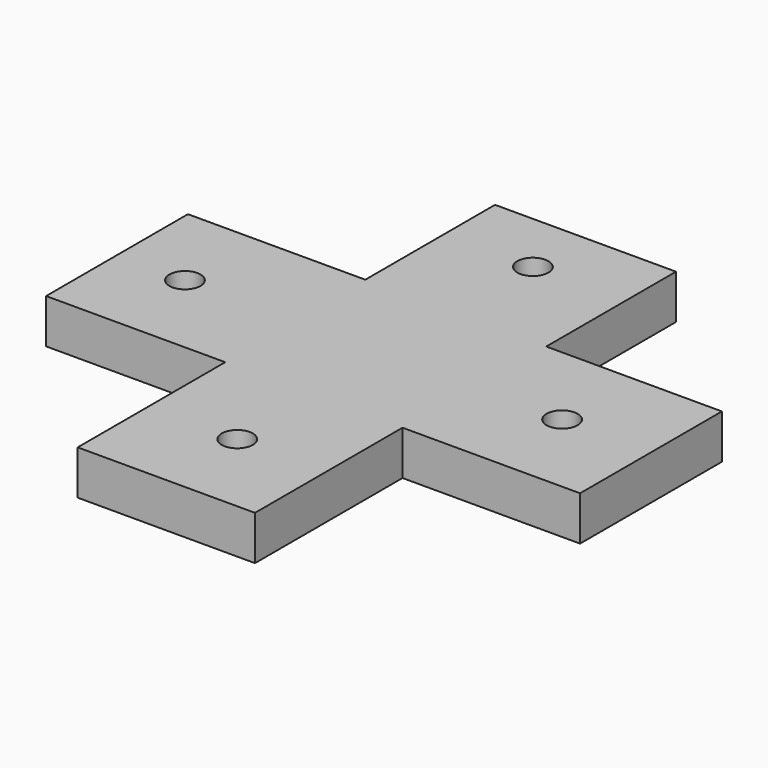
from build123d import *

# Parameters (mm, degrees)
SKETCH_R  = 1.753257
PAD_DEPTH = 5


with BuildPart() as part:
    # Sketch → Pad (new body)
    with BuildSketch(Plane.XY):
        Polygon((-10.108463, 30.043381), (10.303684, 30.043381), (10.303684, 11.753257), (30.11874, 11.753257), (30.11874, -8.246743), (10.087649, -8.246743), (10.087649, -29.0464), (-9.912351, -29.0464), (-9.912351, -8.246743), (-30.11874, -8.246743), (-30.11874, 11.753257), (-10.108463, 11.753257), align=None)
        with Locations((-0.108463, 22.885031)):
            Circle(SKETCH_R, mode=Mode.SUBTRACT)
        with Locations((20.087649, 1.753257)):
            Circle(SKETCH_R, mode=Mode.SUBTRACT)
        with Locations((0.087649, -19.0464)):
            Circle(SKETCH_R, mode=Mode.SUBTRACT)
        with Locations((-22.451193, 1.753257)):
            Circle(SKETCH_R, mode=Mode.SUBTRACT)
    extrude(amount=PAD_DEPTH)


solid = part.part
